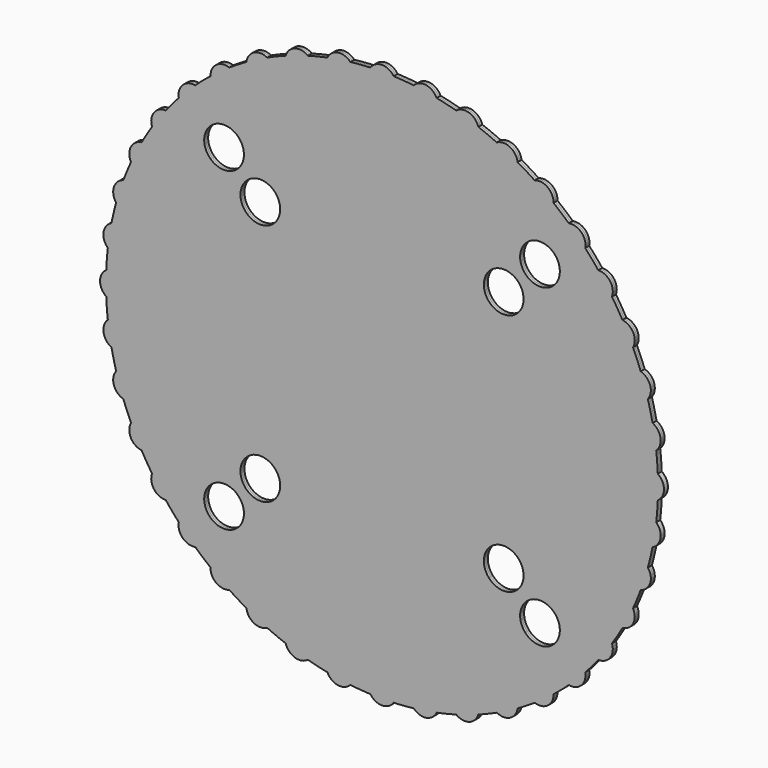
from build123d import *

# Parameters (mm, degrees)
F1_DEPTH = 0.75


with BuildPart() as f1:
    # F0 (on Front) → F1 (new body, symmetric)
    with BuildSketch(Plane.XZ):
        with BuildLine():
            ThreePointArc((83.3256885155, -3.5198911094), (83.3814200592, -1.7603377246), (83.4, 0))
            ThreePointArc((83.4, 0), (83.3814200592, 1.7603377246), (83.3256885155, 3.5198911094))
            ThreePointArc((83.3256885155, 3.5198911094), (76.68, 0), (83.3256885155, -3.5198911094))
        make_face()
        with BuildLine():
            ThreePointArc((83.3256885155, 3.5198911094), (83.3814200592, 1.7603377246), (83.4, 0))
            ThreePointArc((83.4, 0), (83.3814200592, -1.7603377246), (83.3256885155, -3.5198911094))
            ThreePointArc((83.3256885155, -3.5198911094), (84.6951465818, -1.9915628746), (85.19, 0))
            ThreePointArc((85.19, 0), (84.6951465818, 1.9915628746), (83.3256885155, 3.5198911094))
        make_face()
        with BuildLine():
            ThreePointArc((83.3256885155, -3.5198911094), (76.68, 0), (83.3256885155, 3.5198911094))
            ThreePointArc((83.3256885155, 3.5198911094), (83.1429056333, 6.5434885837), (82.8504433015, 9.5584540981))
            ThreePointArc((82.8504433015, 9.5584540981), (75.7359419568, 11.9953947793), (81.7491787361, 16.5115649159))
            ThreePointArc((81.7491787361, 16.5115649159), (81.0956513612, 19.4693433456), (80.3351452086, 22.401438443))
            ThreePointArc((80.3351452086, 22.401438443), (72.9270136695, 23.6954231287), (78.1597328663, 29.0966691955))
            ThreePointArc((78.1597328663, 29.0966691955), (77.0515530114, 31.9157982592), (75.8417292236, 34.6928250274))
            ThreePointArc((75.8417292236, 34.6928250274), (68.3223802748, 34.81199152), (72.645734976, 40.9653169132))
            ThreePointArc((72.645734976, 40.9653169132), (71.1101897071, 43.5763802973), (69.4808381608, 46.1299591207))
            ThreePointArc((69.4808381608, 46.1299591207), (62.0354231287, 45.0713731458), (65.3429579932, 51.8252625724))
            ThreePointArc((65.3429579932, 51.8252625724), (63.417857531, 54.1639672307), (61.4090982688, 56.4312205238))
            ThreePointArc((61.4090982688, 56.4312205238), (54.2209479814, 54.2209479814), (56.4312205238, 61.4090982688))
            ThreePointArc((56.4312205238, 61.4090982688), (54.1639672307, 63.417857531), (51.8252625724, 65.3429579932))
            ThreePointArc((51.8252625724, 65.3429579932), (45.0713731458, 62.0354231287), (46.1299591207, 69.4808381608))
            ThreePointArc((46.1299591207, 69.4808381608), (43.5763802973, 71.1101897071), (40.9653169132, 72.645734976))
            ThreePointArc((40.9653169132, 72.645734976), (40.9903618394, 72.3801977306), (40.9987210964, 72.1136130352))
            ThreePointArc((40.9987210964, 72.1136130352), (34.5782578404, 68.4508553464), (34.6928250274, 75.8417292236))
            ThreePointArc((34.6928250274, 75.8417292236), (31.9157982592, 77.0515530114), (29.0966691955, 78.1597328663))
            ThreePointArc((29.0966691955, 78.1597328663), (29.2229242124, 77.5727096427), (29.2652904397, 76.9737591463))
            ThreePointArc((29.2652904397, 76.9737591463), (23.1388792404, 73.1523922282), (22.401438443, 80.3351452086))
            ThreePointArc((22.401438443, 80.3351452086), (19.4693433456, 81.0956513612), (16.5115649159, 81.7491787361))
            ThreePointArc((16.5115649159, 81.7491787361), (16.8136779424, 80.8661794144), (16.916023428, 79.9385558461))
            ThreePointArc((16.916023428, 79.9385558461), (11.0952021577, 75.9821396964), (9.5584540981, 82.8504433015))
            ThreePointArc((9.5584540981, 82.8504433015), (6.5434885837, 83.1429056333), (3.5198911094, 83.3256885155))
            ThreePointArc((3.5198911094, 83.3256885155), (4.06707276, 82.1855775325), (4.255, 80.935))
            ThreePointArc((4.255, 80.935), (-1.2505775325, 76.86792724), (-3.5198911094, 83.3256885155))
            ThreePointArc((-3.5198911094, 83.3256885155), (-6.5434885837, 83.1429056333), (-9.5584540981, 82.8504433015))
            ThreePointArc((-9.5584540981, 82.8504433015), (-8.7046072784, 81.5043771164), (-8.406023428, 79.9385558461))
            ThreePointArc((-8.406023428, 79.9385558461), (-13.5886469963, 75.7859013317), (-16.5115649159, 81.7491787361))
            ThreePointArc((-16.5115649159, 81.7491787361), (-19.4693433456, 81.0956513612), (-22.401438443, 80.3351452086))
            ThreePointArc((-22.401438443, 80.3351452086), (-21.1889235216, 78.8451703457), (-20.7552904397, 76.9737591463))
            ThreePointArc((-20.7552904397, 76.9737591463), (-25.6092409361, 72.7611253736), (-29.0966691955, 78.1597328663))
            ThreePointArc((-29.0966691955, 78.1597328663), (-31.9157982592, 77.0515530114), (-34.6928250274, 75.8417292236))
            ThreePointArc((-34.6928250274, 75.8417292236), (-33.0809634076, 74.2790762912), (-32.4887210964, 72.1136130352))
            ThreePointArc((-32.4887210964, 72.1136130352), (-37.0103057918, 67.8669722922), (-40.9653169132, 72.645734976))
            ThreePointArc((-40.9653169132, 72.645734976), (-43.5763802973, 71.1101897071), (-46.1299591207, 69.4808381608))
            ThreePointArc((-46.1299591207, 69.4808381608), (-44.090833054, 67.9239549513), (-43.3173993943, 65.4777904397))
            ThreePointArc((-43.3173993943, 65.4777904397), (-47.5049747055, 61.2233246788), (-51.8252625724, 65.3429579932))
            ThreePointArc((-51.8252625724, 65.3429579932), (-54.1639672307, 63.417857531), (-56.4312205238, 61.4090982688))
            ThreePointArc((-56.4312205238, 61.4090982688), (-53.9507773577, 59.9414716849), (-52.9746873353, 57.2296873353))
            ThreePointArc((-52.9746873353, 57.2296873353), (-56.8286689579, 52.9936267526), (-61.4090982688, 56.4312205238))
            ThreePointArc((-61.4090982688, 56.4312205238), (-63.417857531, 54.1639672307), (-65.3429579932, 51.8252625724))
            ThreePointArc((-65.3429579932, 51.8252625724), (-62.4217523952, 50.5330845295), (-61.2227904397, 47.5723993943))
            ThreePointArc((-61.2227904397, 47.5723993943), (-64.7456507854, 43.3808607118), (-69.4808381608, 46.1299591207))
            ThreePointArc((-69.4808381608, 46.1299591207), (-71.1101897071, 43.5763802973), (-72.645734976, 40.9653169132))
            ThreePointArc((-72.645734976, 40.9653169132), (-69.2992884144, 39.935053409), (-67.8586130352, 36.7437210964))
            ThreePointArc((-67.8586130352, 36.7437210964), (-71.0548659883, 32.6225465441), (-75.8417292236, 34.6928250274))
            ThreePointArc((-75.8417292236, 34.6928250274), (-77.0515530114, 31.9157982592), (-78.1597328663, 29.0966691955))
            ThreePointArc((-78.1597328663, 29.0966691955), (-74.4184991966, 28.4125943046), (-72.7187591463, 25.0102904397))
            ThreePointArc((-72.7187591463, 25.0102904397), (-75.5949322346, 20.9848884291), (-80.3351452086, 22.401438443))
            ThreePointArc((-80.3351452086, 22.401438443), (-81.0956513612, 19.4693433456), (-81.7491787361, 16.5115649159))
            ThreePointArc((-81.7491787361, 16.5115649159), (-77.6581145946, 16.2533225106), (-75.6835558461, 12.661023428))
            ThreePointArc((-75.6835558461, 12.661023428), (-78.2481499958, 8.756211901), (-82.8504433015, 9.5584540981))
            ThreePointArc((-82.8504433015, 9.5584540981), (-83.1429056333, 6.5434885837), (-83.3256885155, 3.5198911094))
            ThreePointArc((-83.3256885155, 3.5198911094), (-78.9434371254, 3.7601465818), (-76.68, 0))
            ThreePointArc((-76.68, 0), (-78.9434371254, -3.7601465818), (-83.3256885155, -3.5198911094))
            ThreePointArc((-83.3256885155, -3.5198911094), (-83.1429056333, -6.5434885837), (-82.8504433015, -9.5584540981))
            ThreePointArc((-82.8504433015, -9.5584540981), (-78.2481499958, -8.756211901), (-75.6835558461, -12.661023428))
            ThreePointArc((-75.6835558461, -12.661023428), (-77.6581145946, -16.2533225106), (-81.7491787361, -16.5115649159))
            ThreePointArc((-81.7491787361, -16.5115649159), (-81.0956513612, -19.4693433456), (-80.3351452086, -22.401438443))
            ThreePointArc((-80.3351452086, -22.401438443), (-75.5949322346, -20.9848884291), (-72.7187591463, -25.0102904397))
            ThreePointArc((-72.7187591463, -25.0102904397), (-74.4184991966, -28.4125943046), (-78.1597328663, -29.0966691955))
            ThreePointArc((-78.1597328663, -29.0966691955), (-77.0515530114, -31.9157982592), (-75.8417292236, -34.6928250274))
            ThreePointArc((-75.8417292236, -34.6928250274), (-71.0548659883, -32.6225465441), (-67.8586130352, -36.7437210964))
            ThreePointArc((-67.8586130352, -36.7437210964), (-69.2992884144, -39.935053409), (-72.645734976, -40.9653169132))
            ThreePointArc((-72.645734976, -40.9653169132), (-71.1101897071, -43.5763802973), (-69.4808381608, -46.1299591207))
            ThreePointArc((-69.4808381608, -46.1299591207), (-64.7456507854, -43.3808607118), (-61.2227904397, -47.5723993943))
            ThreePointArc((-61.2227904397, -47.5723993943), (-62.4217523952, -50.5330845295), (-65.3429579932, -51.8252625724))
            ThreePointArc((-65.3429579932, -51.8252625724), (-63.417857531, -54.1639672307), (-61.4090982688, -56.4312205238))
            ThreePointArc((-61.4090982688, -56.4312205238), (-56.8286689579, -52.9936267526), (-52.9746873353, -57.2296873353))
            ThreePointArc((-52.9746873353, -57.2296873353), (-53.9507773577, -59.9414716849), (-56.4312205238, -61.4090982688))
            ThreePointArc((-56.4312205238, -61.4090982688), (-54.1639672307, -63.417857531), (-51.8252625724, -65.3429579932))
            ThreePointArc((-51.8252625724, -65.3429579932), (-47.5049747055, -61.2233246788), (-43.3173993943, -65.4777904397))
            ThreePointArc((-43.3173993943, -65.4777904397), (-44.090833054, -67.9239549513), (-46.1299591207, -69.4808381608))
            ThreePointArc((-46.1299591207, -69.4808381608), (-43.5763802973, -71.1101897071), (-40.9653169132, -72.645734976))
            ThreePointArc((-40.9653169132, -72.645734976), (-37.0103057918, -67.8669722922), (-32.4887210964, -72.1136130352))
            ThreePointArc((-32.4887210964, -72.1136130352), (-33.0809634076, -74.2790762912), (-34.6928250274, -75.8417292236))
            ThreePointArc((-34.6928250274, -75.8417292236), (-31.9157982592, -77.0515530114), (-29.0966691955, -78.1597328663))
            ThreePointArc((-29.0966691955, -78.1597328663), (-25.6092409361, -72.7611253736), (-20.7552904397, -76.9737591463))
            ThreePointArc((-20.7552904397, -76.9737591463), (-21.1889235216, -78.8451703457), (-22.401438443, -80.3351452086))
            ThreePointArc((-22.401438443, -80.3351452086), (-19.4693433456, -81.0956513612), (-16.5115649159, -81.7491787361))
            ThreePointArc((-16.5115649159, -81.7491787361), (-13.5886469963, -75.7859013317), (-8.406023428, -79.9385558461))
            ThreePointArc((-8.406023428, -79.9385558461), (-8.7046072784, -81.5043771164), (-9.5584540981, -82.8504433015))
            ThreePointArc((-9.5584540981, -82.8504433015), (-6.5434885837, -83.1429056333), (-3.5198911094, -83.3256885155))
            ThreePointArc((-3.5198911094, -83.3256885155), (-1.2505775325, -76.86792724), (4.255, -80.935))
            ThreePointArc((4.255, -80.935), (4.06707276, -82.1855775325), (3.5198911094, -83.3256885155))
            ThreePointArc((3.5198911094, -83.3256885155), (6.5434885837, -83.1429056333), (9.5584540981, -82.8504433015))
            ThreePointArc((9.5584540981, -82.8504433015), (11.0952021577, -75.9821396964), (16.916023428, -79.9385558461))
            ThreePointArc((16.916023428, -79.9385558461), (16.8136779424, -80.8661794144), (16.5115649159, -81.7491787361))
            ThreePointArc((16.5115649159, -81.7491787361), (19.4693433456, -81.0956513612), (22.401438443, -80.3351452086))
            ThreePointArc((22.401438443, -80.3351452086), (23.1388792404, -73.1523922282), (29.2652904397, -76.9737591463))
            ThreePointArc((29.2652904397, -76.9737591463), (29.2229242124, -77.5727096427), (29.0966691955, -78.1597328663))
            ThreePointArc((29.0966691955, -78.1597328663), (31.9157982592, -77.0515530114), (34.6928250274, -75.8417292236))
            ThreePointArc((34.6928250274, -75.8417292236), (34.5782578404, -68.4508553464), (40.9987210964, -72.1136130352))
            ThreePointArc((40.9987210964, -72.1136130352), (40.9903618394, -72.3801977306), (40.9653169132, -72.645734976))
            ThreePointArc((40.9653169132, -72.645734976), (43.5763802973, -71.1101897071), (46.1299591207, -69.4808381608))
            ThreePointArc((46.1299591207, -69.4808381608), (45.0713731458, -62.0354231287), (51.8252625724, -65.3429579932))
            ThreePointArc((51.8252625724, -65.3429579932), (54.1639672307, -63.417857531), (56.4312205238, -61.4090982688))
            ThreePointArc((56.4312205238, -61.4090982688), (54.2209479814, -54.2209479814), (61.4090982688, -56.4312205238))
            ThreePointArc((61.4090982688, -56.4312205238), (63.417857531, -54.1639672307), (65.3429579932, -51.8252625724))
            ThreePointArc((65.3429579932, -51.8252625724), (62.0354231287, -45.0713731458), (69.4808381608, -46.1299591207))
            ThreePointArc((69.4808381608, -46.1299591207), (71.1101897071, -43.5763802973), (72.645734976, -40.9653169132))
            ThreePointArc((72.645734976, -40.9653169132), (68.3223802748, -34.81199152), (75.8417292236, -34.6928250274))
            ThreePointArc((75.8417292236, -34.6928250274), (77.0515530114, -31.9157982593), (78.1597328663, -29.0966691955))
            ThreePointArc((78.1597328663, -29.0966691955), (72.9270136695, -23.6954231287), (80.3351452086, -22.401438443))
            ThreePointArc((80.3351452086, -22.401438443), (81.0956513612, -19.4693433456), (81.7491787361, -16.5115649159))
            ThreePointArc((81.7491787361, -16.5115649159), (75.7359419568, -11.9953947793), (82.8504433015, -9.5584540981))
            ThreePointArc((82.8504433015, -9.5584540981), (83.1429056333, -6.5434885837), (83.3256885155, -3.5198911094))
        make_face()
        with BuildLine():
            ThreePointArc((51.7795942752, 43.3026975684), (63.4482963269, 23.0339682472), (67.5, 0))
            ThreePointArc((67.5, 0), (63.4482963269, -23.0339682472), (51.7795942752, -43.3026975684))
            ThreePointArc((51.7795942752, -43.3026975684), (53.2205783018, -45.3109600449), (53.7297077301, -47.7297077301))
            ThreePointArc((53.7297077301, -47.7297077301), (49.9020266558, -53.3226524362), (43.3026975684, -51.7795942752))
            ThreePointArc((43.3026975684, -51.7795942752), (0, -67.5), (-43.3026975684, -51.7795942752))
            ThreePointArc((-43.3026975684, -51.7795942752), (-51.9723484172, -51.9723484172), (-51.7795942752, -43.3026975684))
            ThreePointArc((-51.7795942752, -43.3026975684), (-67.5, 0), (-51.7795942752, 43.3026975684))
            ThreePointArc((-51.7795942752, 43.3026975684), (-51.9723484172, 51.9723484172), (-43.3026975684, 51.7795942752))
            ThreePointArc((-43.3026975684, 51.7795942752), (0, 67.5), (43.3026975684, 51.7795942752))
            ThreePointArc((43.3026975684, 51.7795942752), (49.9020266558, 53.3226524362), (53.7297077301, 47.7297077301))
            ThreePointArc((53.7297077301, 47.7297077301), (53.2205783018, 45.3109600449), (51.7795942752, 43.3026975684))
        make_face(mode=Mode.SUBTRACT)
        with BuildLine():
            ThreePointArc((81.7491787361, 16.5115649159), (75.7359419568, 11.9953947793), (82.8504433015, 9.5584540981))
            ThreePointArc((82.8504433015, 9.5584540981), (82.3732076056, 13.0466343844), (81.7491787361, 16.5115649159))
        make_face()
        with BuildLine():
            ThreePointArc((81.7491787361, 16.5115649159), (82.3732076056, 13.0466343844), (82.8504433015, 9.5584540981))
            ThreePointArc((82.8504433015, 9.5584540981), (83.8433673731, 10.9706175778), (84.1935558461, 12.661023428))
            ThreePointArc((84.1935558461, 12.661023428), (83.5308549286, 14.9414646795), (81.7491787361, 16.5115649159))
        make_face()
        with BuildLine():
            ThreePointArc((84.1935558461, -12.661023428), (83.8433673731, -10.9706175778), (82.8504433015, -9.5584540981))
            ThreePointArc((82.8504433015, -9.5584540981), (82.3732076056, -13.0466343844), (81.7491787361, -16.5115649159))
            ThreePointArc((81.7491787361, -16.5115649159), (83.5308549286, -14.9414646795), (84.1935558461, -12.661023428))
        make_face()
        with BuildLine():
            ThreePointArc((81.7491787361, -16.5115649159), (82.3732076056, -13.0466343844), (82.8504433015, -9.5584540981))
            ThreePointArc((82.8504433015, -9.5584540981), (75.7359419568, -11.9953947793), (81.7491787361, -16.5115649159))
        make_face()
        with BuildLine():
            ThreePointArc((78.1597328663, 29.0966691955), (72.9270136695, 23.6954231287), (80.3351452086, 22.401438443))
            ThreePointArc((80.3351452086, 22.401438443), (79.318113459, 25.7720173309), (78.1597328663, 29.0966691955))
        make_face()
        with BuildLine():
            ThreePointArc((78.1597328663, 29.0966691955), (79.318113459, 25.7720173309), (80.3351452086, 22.401438443))
            ThreePointArc((80.3351452086, 22.401438443), (80.999161157, 23.631463528), (81.2287591463, 25.0102904397))
            ThreePointArc((81.2287591463, 25.0102904397), (80.3760630113, 27.5655503895), (78.1597328663, 29.0966691955))
        make_face()
        with BuildLine():
            ThreePointArc((81.2287591463, -25.0102904397), (80.999161157, -23.631463528), (80.3351452086, -22.401438443))
            ThreePointArc((80.3351452086, -22.401438443), (79.318113459, -25.7720173309), (78.1597328663, -29.0966691955))
            ThreePointArc((78.1597328663, -29.0966691955), (80.3760630113, -27.5655503895), (81.2287591463, -25.0102904397))
        make_face()
        with BuildLine():
            ThreePointArc((78.1597328663, -29.0966691955), (79.318113459, -25.7720173309), (80.3351452086, -22.401438443))
            ThreePointArc((80.3351452086, -22.401438443), (72.9270136695, -23.6954231287), (78.1597328663, -29.0966691955))
        make_face()
        with BuildLine():
            ThreePointArc((72.645734976, 40.9653169132), (68.3223802748, 34.81199152), (75.8417292236, 34.6928250274))
            ThreePointArc((75.8417292236, 34.6928250274), (74.3099441173, 37.8628076783), (72.645734976, 40.9653169132))
        make_face()
        with BuildLine():
            ThreePointArc((72.645734976, 40.9653169132), (74.3099441173, 37.8628076783), (75.8417292236, 34.6928250274))
            ThreePointArc((75.8417292236, 34.6928250274), (76.2347875875, 35.6849740496), (76.3686130352, 36.7437210964))
            ThreePointArc((76.3686130352, 36.7437210964), (75.3049453477, 39.5580457172), (72.645734976, 40.9653169132))
        make_face()
        with BuildLine():
            ThreePointArc((76.3686130352, -36.7437210964), (76.2347875875, -35.6849740496), (75.8417292236, -34.6928250274))
            ThreePointArc((75.8417292236, -34.6928250274), (74.3099441173, -37.8628076783), (72.645734976, -40.9653169132))
            ThreePointArc((72.645734976, -40.9653169132), (75.3049453477, -39.5580457172), (76.3686130352, -36.7437210964))
        make_face()
        with BuildLine():
            ThreePointArc((72.645734976, -40.9653169132), (74.3099441173, -37.8628076783), (75.8417292236, -34.6928250274))
            ThreePointArc((75.8417292236, -34.6928250274), (68.3223802748, -34.81199152), (72.645734976, -40.9653169132))
        make_face()
        with BuildLine():
            ThreePointArc((65.3429579932, 51.8252625724), (62.0354231287, 45.0713731458), (69.4808381608, 46.1299591207))
            ThreePointArc((69.4808381608, 46.1299591207), (67.4720173309, 49.0212900412), (65.3429579932, 51.8252625724))
        make_face()
        with BuildLine():
            ThreePointArc((65.3429579932, 51.8252625724), (67.4720173309, 49.0212900412), (69.4808381608, 46.1299591207))
            ThreePointArc((69.4808381608, 46.1299591207), (69.6693291222, 46.8402597399), (69.7327904397, 47.5723993943))
            ThreePointArc((69.7327904397, 47.5723993943), (68.438475575, 50.6284374389), (65.3429579932, 51.8252625724))
        make_face()
        with BuildLine():
            ThreePointArc((69.7327904397, -47.5723993943), (69.6693291222, -46.8402597399), (69.4808381608, -46.1299591207))
            ThreePointArc((69.4808381608, -46.1299591207), (67.4720173309, -49.0212900412), (65.3429579932, -51.8252625724))
            ThreePointArc((65.3429579932, -51.8252625724), (68.438475575, -50.6284374389), (69.7327904397, -47.5723993943))
        make_face()
        with BuildLine():
            ThreePointArc((65.3429579932, -51.8252625724), (67.4720173309, -49.0212900412), (69.4808381608, -46.1299591207))
            ThreePointArc((69.4808381608, -46.1299591207), (62.0354231287, -45.0713731458), (65.3429579932, -51.8252625724))
        make_face()
        with BuildLine():
            ThreePointArc((56.4312205238, 61.4090982688), (54.2209479814, 54.2209479814), (61.4090982688, 56.4312205238))
            ThreePointArc((61.4090982688, 56.4312205238), (58.972705551, 58.972705551), (56.4312205238, 61.4090982688))
        make_face()
        with BuildLine():
            ThreePointArc((56.4312205238, 61.4090982688), (58.972705551, 58.972705551), (61.4090982688, 56.4312205238))
            ThreePointArc((61.4090982688, 56.4312205238), (61.4657479181, 56.8286689579), (61.4846873353, 57.2296873353))
            ThreePointArc((61.4846873353, 57.2296873353), (59.9414716849, 60.508597313), (56.4312205238, 61.4090982688))
        make_face()
        with BuildLine():
            ThreePointArc((61.4846873353, -57.2296873353), (61.4657479181, -56.8286689579), (61.4090982688, -56.4312205238))
            ThreePointArc((61.4090982688, -56.4312205238), (58.972705551, -58.972705551), (56.4312205238, -61.4090982688))
            ThreePointArc((56.4312205238, -61.4090982688), (59.9414716849, -60.508597313), (61.4846873353, -57.2296873353))
        make_face()
        with BuildLine():
            ThreePointArc((56.4312205238, -61.4090982688), (58.972705551, -58.972705551), (61.4090982688, -56.4312205238))
            ThreePointArc((61.4090982688, -56.4312205238), (54.2209479814, -54.2209479814), (56.4312205238, -61.4090982688))
        make_face()
        with BuildLine():
            ThreePointArc((46.1299591207, 69.4808381608), (45.0713731458, 62.0354231287), (51.8252625724, 65.3429579932))
            ThreePointArc((51.8252625724, 65.3429579932), (49.0212900412, 67.4720173309), (46.1299591207, 69.4808381608))
        make_face()
        with BuildLine():
            ThreePointArc((46.1299591207, 69.4808381608), (49.0212900412, 67.4720173309), (51.8252625724, 65.3429579932))
            ThreePointArc((51.8252625724, 65.3429579932), (51.8268651553, 65.4103657509), (51.8273993943, 65.4777904397))
            ThreePointArc((51.8273993943, 65.4777904397), (50.0185639059, 68.9593567801), (46.1299591207, 69.4808381608))
        make_face()
        with BuildLine():
            ThreePointArc((51.8273993943, -65.4777904397), (51.8268651553, -65.4103657509), (51.8252625724, -65.3429579932))
            ThreePointArc((51.8252625724, -65.3429579932), (49.0212900412, -67.4720173309), (46.1299591207, -69.4808381608))
            ThreePointArc((46.1299591207, -69.4808381608), (50.0185639059, -68.9593567801), (51.8273993943, -65.4777904397))
        make_face()
        with BuildLine():
            ThreePointArc((46.1299591207, -69.4808381608), (49.0212900412, -67.4720173309), (51.8252625724, -65.3429579932))
            ThreePointArc((51.8252625724, -65.3429579932), (45.0713731458, -62.0354231287), (46.1299591207, -69.4808381608))
        make_face()
        with BuildLine():
            ThreePointArc((40.9987210964, 72.1136130352), (40.9903618394, 72.3801977306), (40.9653169132, 72.645734976))
            ThreePointArc((40.9653169132, 72.645734976), (37.8628076783, 74.3099441173), (34.6928250274, 75.8417292236))
            ThreePointArc((34.6928250274, 75.8417292236), (34.5782578404, 68.4508553464), (40.9987210964, 72.1136130352))
        make_face()
        with BuildLine():
            ThreePointArc((34.6928250274, 75.8417292236), (37.8628076783, 74.3099441173), (40.9653169132, 72.645734976))
            ThreePointArc((40.9653169132, 72.645734976), (38.6754506728, 75.9048457956), (34.6928250274, 75.8417292236))
        make_face()
        with BuildLine():
            ThreePointArc((34.6928250274, -75.8417292236), (38.6754506728, -75.9048457956), (40.9653169132, -72.645734976))
            ThreePointArc((40.9653169132, -72.645734976), (37.8628076783, -74.3099441173), (34.6928250274, -75.8417292236))
        make_face()
        with BuildLine():
            ThreePointArc((34.6928250274, -75.8417292236), (37.8628076783, -74.3099441173), (40.9653169132, -72.645734976))
            ThreePointArc((40.9653169132, -72.645734976), (40.9903618394, -72.3801977306), (40.9987210964, -72.1136130352))
            ThreePointArc((40.9987210964, -72.1136130352), (34.5782578404, -68.4508553464), (34.6928250274, -75.8417292236))
        make_face()
        with BuildLine():
            ThreePointArc((29.2652904397, 76.9737591463), (29.2229242124, 77.5727096427), (29.0966691955, 78.1597328663))
            ThreePointArc((29.0966691955, 78.1597328663), (25.7720173309, 79.318113459), (22.401438443, 80.3351452086))
            ThreePointArc((22.401438443, 80.3351452086), (23.1388792404, 73.1523922282), (29.2652904397, 76.9737591463))
        make_face()
        with BuildLine():
            ThreePointArc((22.401438443, 80.3351452086), (25.7720173309, 79.318113459), (29.0966691955, 78.1597328663))
            ThreePointArc((29.0966691955, 78.1597328663), (26.3251577508, 81.0205046232), (22.401438443, 80.3351452086))
        make_face()
        with BuildLine():
            ThreePointArc((22.401438443, -80.3351452086), (26.3251577508, -81.0205046232), (29.0966691955, -78.1597328663))
            ThreePointArc((29.0966691955, -78.1597328663), (25.7720173309, -79.318113459), (22.401438443, -80.3351452086))
        make_face()
        with BuildLine():
            ThreePointArc((22.401438443, -80.3351452086), (25.7720173309, -79.318113459), (29.0966691955, -78.1597328663))
            ThreePointArc((29.0966691955, -78.1597328663), (29.2229242124, -77.5727096427), (29.2652904397, -76.9737591463))
            ThreePointArc((29.2652904397, -76.9737591463), (23.1388792404, -73.1523922282), (22.401438443, -80.3351452086))
        make_face()
        with BuildLine():
            ThreePointArc((16.916023428, 79.9385558461), (16.8136779424, 80.8661794144), (16.5115649159, 81.7491787361))
            ThreePointArc((16.5115649159, 81.7491787361), (13.0466343844, 82.3732076056), (9.5584540981, 82.8504433015))
            ThreePointArc((9.5584540981, 82.8504433015), (11.0952021577, 75.9821396964), (16.916023428, 79.9385558461))
        make_face()
        with BuildLine():
            ThreePointArc((9.5584540981, 82.8504433015), (13.0466343844, 82.3732076056), (16.5115649159, 81.7491787361))
            ThreePointArc((16.5115649159, 81.7491787361), (13.3266520768, 84.1411697353), (9.5584540981, 82.8504433015))
        make_face()
        with BuildLine():
            ThreePointArc((9.5584540981, -82.8504433015), (13.3266520768, -84.1411697353), (16.5115649159, -81.7491787361))
            ThreePointArc((16.5115649159, -81.7491787361), (13.0466343844, -82.3732076056), (9.5584540981, -82.8504433015))
        make_face()
        with BuildLine():
            ThreePointArc((9.5584540981, -82.8504433015), (13.0466343844, -82.3732076056), (16.5115649159, -81.7491787361))
            ThreePointArc((16.5115649159, -81.7491787361), (16.8136779424, -80.8661794144), (16.916023428, -79.9385558461))
            ThreePointArc((16.916023428, -79.9385558461), (11.0952021577, -75.9821396964), (9.5584540981, -82.8504433015))
        make_face()
        with BuildLine():
            ThreePointArc((4.255, 80.935), (4.06707276, 82.1855775325), (3.5198911094, 83.3256885155))
            ThreePointArc((3.5198911094, 83.3256885155), (0, 83.4), (-3.5198911094, 83.3256885155))
            ThreePointArc((-3.5198911094, 83.3256885155), (-1.2505775325, 76.86792724), (4.255, 80.935))
        make_face()
        with BuildLine():
            ThreePointArc((-3.5198911094, 83.3256885155), (0, 83.4), (3.5198911094, 83.3256885155))
            ThreePointArc((3.5198911094, 83.3256885155), (0, 85.19), (-3.5198911094, 83.3256885155))
        make_face()
        with BuildLine():
            ThreePointArc((-3.5198911094, -83.3256885155), (0, -85.19), (3.5198911094, -83.3256885155))
            ThreePointArc((3.5198911094, -83.3256885155), (0, -83.4), (-3.5198911094, -83.3256885155))
        make_face()
        with BuildLine():
            ThreePointArc((-3.5198911094, -83.3256885155), (0, -83.4), (3.5198911094, -83.3256885155))
            ThreePointArc((3.5198911094, -83.3256885155), (4.06707276, -82.1855775325), (4.255, -80.935))
            ThreePointArc((4.255, -80.935), (-1.2505775325, -76.86792724), (-3.5198911094, -83.3256885155))
        make_face()
        with BuildLine():
            ThreePointArc((-8.406023428, 79.9385558461), (-8.7046072784, 81.5043771164), (-9.5584540981, 82.8504433015))
            ThreePointArc((-9.5584540981, 82.8504433015), (-13.0466343844, 82.3732076056), (-16.5115649159, 81.7491787361))
            ThreePointArc((-16.5115649159, 81.7491787361), (-13.5886469963, 75.7859013317), (-8.406023428, 79.9385558461))
        make_face()
        with BuildLine():
            ThreePointArc((-16.5115649159, 81.7491787361), (-13.0466343844, 82.3732076056), (-9.5584540981, 82.8504433015))
            ThreePointArc((-9.5584540981, 82.8504433015), (-13.3266520768, 84.1411697353), (-16.5115649159, 81.7491787361))
        make_face()
        with BuildLine():
            ThreePointArc((-16.5115649159, -81.7491787361), (-13.3266520768, -84.1411697353), (-9.5584540981, -82.8504433015))
            ThreePointArc((-9.5584540981, -82.8504433015), (-13.0466343844, -82.3732076056), (-16.5115649159, -81.7491787361))
        make_face()
        with BuildLine():
            ThreePointArc((-16.5115649159, -81.7491787361), (-13.0466343844, -82.3732076056), (-9.5584540981, -82.8504433015))
            ThreePointArc((-9.5584540981, -82.8504433015), (-8.7046072784, -81.5043771164), (-8.406023428, -79.9385558461))
            ThreePointArc((-8.406023428, -79.9385558461), (-13.5886469963, -75.7859013317), (-16.5115649159, -81.7491787361))
        make_face()
        with BuildLine():
            ThreePointArc((-20.7552904397, 76.9737591463), (-21.1889235216, 78.8451703457), (-22.401438443, 80.3351452086))
            ThreePointArc((-22.401438443, 80.3351452086), (-25.7720173309, 79.318113459), (-29.0966691955, 78.1597328663))
            ThreePointArc((-29.0966691955, 78.1597328663), (-25.6092409361, 72.7611253736), (-20.7552904397, 76.9737591463))
        make_face()
        with BuildLine():
            ThreePointArc((-29.0966691955, 78.1597328663), (-25.7720173309, 79.318113459), (-22.401438443, 80.3351452086))
            ThreePointArc((-22.401438443, 80.3351452086), (-26.3251577508, 81.0205046232), (-29.0966691955, 78.1597328663))
        make_face()
        with BuildLine():
            ThreePointArc((-29.0966691955, -78.1597328663), (-26.3251577508, -81.0205046232), (-22.401438443, -80.3351452086))
            ThreePointArc((-22.401438443, -80.3351452086), (-25.7720173309, -79.318113459), (-29.0966691955, -78.1597328663))
        make_face()
        with BuildLine():
            ThreePointArc((-29.0966691955, -78.1597328663), (-25.7720173309, -79.318113459), (-22.401438443, -80.3351452086))
            ThreePointArc((-22.401438443, -80.3351452086), (-21.1889235216, -78.8451703457), (-20.7552904397, -76.9737591463))
            ThreePointArc((-20.7552904397, -76.9737591463), (-25.6092409361, -72.7611253736), (-29.0966691955, -78.1597328663))
        make_face()
        with BuildLine():
            ThreePointArc((-32.4887210964, 72.1136130352), (-33.0809634076, 74.2790762912), (-34.6928250274, 75.8417292236))
            ThreePointArc((-34.6928250274, 75.8417292236), (-37.8628076783, 74.3099441173), (-40.9653169132, 72.645734976))
            ThreePointArc((-40.9653169132, 72.645734976), (-37.0103057918, 67.8669722922), (-32.4887210964, 72.1136130352))
        make_face()
        with BuildLine():
            ThreePointArc((-40.9653169132, 72.645734976), (-37.8628076783, 74.3099441173), (-34.6928250274, 75.8417292236))
            ThreePointArc((-34.6928250274, 75.8417292236), (-38.6754506728, 75.9048457956), (-40.9653169132, 72.645734976))
        make_face()
        with BuildLine():
            ThreePointArc((-40.9653169132, -72.645734976), (-38.6754506728, -75.9048457956), (-34.6928250274, -75.8417292236))
            ThreePointArc((-34.6928250274, -75.8417292236), (-37.8628076783, -74.3099441173), (-40.9653169132, -72.645734976))
        make_face()
        with BuildLine():
            ThreePointArc((-40.9653169132, -72.645734976), (-37.8628076783, -74.3099441173), (-34.6928250274, -75.8417292236))
            ThreePointArc((-34.6928250274, -75.8417292236), (-33.0809634076, -74.2790762912), (-32.4887210964, -72.1136130352))
            ThreePointArc((-32.4887210964, -72.1136130352), (-37.0103057918, -67.8669722922), (-40.9653169132, -72.645734976))
        make_face()
        with BuildLine():
            ThreePointArc((-43.3173993943, 65.4777904397), (-44.090833054, 67.9239549513), (-46.1299591207, 69.4808381608))
            ThreePointArc((-46.1299591207, 69.4808381608), (-49.0212900412, 67.4720173309), (-51.8252625724, 65.3429579932))
            ThreePointArc((-51.8252625724, 65.3429579932), (-47.5049747055, 61.2233246788), (-43.3173993943, 65.4777904397))
        make_face()
        with BuildLine():
            ThreePointArc((-51.8252625724, 65.3429579932), (-49.0212900412, 67.4720173309), (-46.1299591207, 69.4808381608))
            ThreePointArc((-46.1299591207, 69.4808381608), (-50.0734256428, 68.9201577508), (-51.8252625724, 65.3429579932))
        make_face()
        with BuildLine():
            ThreePointArc((-51.8252625724, -65.3429579932), (-50.0734256428, -68.9201577508), (-46.1299591207, -69.4808381608))
            ThreePointArc((-46.1299591207, -69.4808381608), (-49.0212900412, -67.4720173309), (-51.8252625724, -65.3429579932))
        make_face()
        with BuildLine():
            ThreePointArc((-51.8252625724, -65.3429579932), (-49.0212900412, -67.4720173309), (-46.1299591207, -69.4808381608))
            ThreePointArc((-46.1299591207, -69.4808381608), (-44.090833054, -67.9239549513), (-43.3173993943, -65.4777904397))
            ThreePointArc((-43.3173993943, -65.4777904397), (-47.5049747055, -61.2233246788), (-51.8252625724, -65.3429579932))
        make_face()
        with BuildLine():
            ThreePointArc((-52.9746873353, 57.2296873353), (-53.9507773577, 59.9414716849), (-56.4312205238, 61.4090982688))
            ThreePointArc((-56.4312205238, 61.4090982688), (-58.972705551, 58.972705551), (-61.4090982688, 56.4312205238))
            ThreePointArc((-61.4090982688, 56.4312205238), (-56.8286689579, 52.9936267526), (-52.9746873353, 57.2296873353))
        make_face()
        with BuildLine():
            ThreePointArc((-61.4090982688, 56.4312205238), (-58.972705551, 58.972705551), (-56.4312205238, 61.4090982688))
            ThreePointArc((-56.4312205238, 61.4090982688), (-60.2384266893, 60.2384266893), (-61.4090982688, 56.4312205238))
        make_face()
        with BuildLine():
            ThreePointArc((-61.4090982688, -56.4312205238), (-60.2384266893, -60.2384266893), (-56.4312205238, -61.4090982688))
            ThreePointArc((-56.4312205238, -61.4090982688), (-58.972705551, -58.972705551), (-61.4090982688, -56.4312205238))
        make_face()
        with BuildLine():
            ThreePointArc((-61.4090982688, -56.4312205238), (-58.972705551, -58.972705551), (-56.4312205238, -61.4090982688))
            ThreePointArc((-56.4312205238, -61.4090982688), (-53.9507773577, -59.9414716849), (-52.9746873353, -57.2296873353))
            ThreePointArc((-52.9746873353, -57.2296873353), (-56.8286689579, -52.9936267526), (-61.4090982688, -56.4312205238))
        make_face()
        with BuildLine():
            ThreePointArc((-61.2227904397, 47.5723993943), (-62.4217523952, 50.5330845295), (-65.3429579932, 51.8252625724))
            ThreePointArc((-65.3429579932, 51.8252625724), (-67.4720173309, 49.0212900412), (-69.4808381608, 46.1299591207))
            ThreePointArc((-69.4808381608, 46.1299591207), (-64.7456507854, 43.3808607118), (-61.2227904397, 47.5723993943))
        make_face()
        with BuildLine():
            ThreePointArc((-69.4808381608, 46.1299591207), (-67.4720173309, 49.0212900412), (-65.3429579932, 51.8252625724))
            ThreePointArc((-65.3429579932, 51.8252625724), (-68.9201577508, 50.0734256428), (-69.4808381608, 46.1299591207))
        make_face()
        with BuildLine():
            ThreePointArc((-69.4808381608, -46.1299591207), (-68.9201577508, -50.0734256428), (-65.3429579932, -51.8252625724))
            ThreePointArc((-65.3429579932, -51.8252625724), (-67.4720173309, -49.0212900412), (-69.4808381608, -46.1299591207))
        make_face()
        with BuildLine():
            ThreePointArc((-69.4808381608, -46.1299591207), (-67.4720173309, -49.0212900412), (-65.3429579932, -51.8252625724))
            ThreePointArc((-65.3429579932, -51.8252625724), (-62.4217523952, -50.5330845295), (-61.2227904397, -47.5723993943))
            ThreePointArc((-61.2227904397, -47.5723993943), (-64.7456507854, -43.3808607118), (-69.4808381608, -46.1299591207))
        make_face()
        with BuildLine():
            ThreePointArc((-67.8586130352, 36.7437210964), (-69.2992884144, 39.935053409), (-72.645734976, 40.9653169132))
            ThreePointArc((-72.645734976, 40.9653169132), (-74.3099441173, 37.8628076783), (-75.8417292236, 34.6928250274))
            ThreePointArc((-75.8417292236, 34.6928250274), (-71.0548659883, 32.6225465441), (-67.8586130352, 36.7437210964))
        make_face()
        with BuildLine():
            ThreePointArc((-75.8417292236, 34.6928250274), (-74.3099441173, 37.8628076783), (-72.645734976, 40.9653169132))
            ThreePointArc((-72.645734976, 40.9653169132), (-75.9048457956, 38.6754506728), (-75.8417292236, 34.6928250274))
        make_face()
        with BuildLine():
            ThreePointArc((-75.8417292236, -34.6928250274), (-75.9048457956, -38.6754506728), (-72.645734976, -40.9653169132))
            ThreePointArc((-72.645734976, -40.9653169132), (-74.3099441173, -37.8628076783), (-75.8417292236, -34.6928250274))
        make_face()
        with BuildLine():
            ThreePointArc((-75.8417292236, -34.6928250274), (-74.3099441173, -37.8628076783), (-72.645734976, -40.9653169132))
            ThreePointArc((-72.645734976, -40.9653169132), (-69.2992884144, -39.935053409), (-67.8586130352, -36.7437210964))
            ThreePointArc((-67.8586130352, -36.7437210964), (-71.0548659883, -32.6225465441), (-75.8417292236, -34.6928250274))
        make_face()
        with BuildLine():
            ThreePointArc((-72.7187591463, 25.0102904397), (-74.4184991966, 28.4125943046), (-78.1597328663, 29.0966691955))
            ThreePointArc((-78.1597328663, 29.0966691955), (-79.318113459, 25.7720173309), (-80.3351452086, 22.401438443))
            ThreePointArc((-80.3351452086, 22.401438443), (-75.5949322346, 20.9848884291), (-72.7187591463, 25.0102904397))
        make_face()
        with BuildLine():
            ThreePointArc((-80.3351452086, 22.401438443), (-79.318113459, 25.7720173309), (-78.1597328663, 29.0966691955))
            ThreePointArc((-78.1597328663, 29.0966691955), (-81.0205046232, 26.3251577508), (-80.3351452086, 22.401438443))
        make_face()
        with BuildLine():
            ThreePointArc((-80.3351452086, -22.401438443), (-81.0205046232, -26.3251577508), (-78.1597328663, -29.0966691955))
            ThreePointArc((-78.1597328663, -29.0966691955), (-79.318113459, -25.7720173309), (-80.3351452086, -22.401438443))
        make_face()
        with BuildLine():
            ThreePointArc((-80.3351452086, -22.401438443), (-79.318113459, -25.7720173309), (-78.1597328663, -29.0966691955))
            ThreePointArc((-78.1597328663, -29.0966691955), (-74.4184991966, -28.4125943046), (-72.7187591463, -25.0102904397))
            ThreePointArc((-72.7187591463, -25.0102904397), (-75.5949322346, -20.9848884291), (-80.3351452086, -22.401438443))
        make_face()
        with BuildLine():
            ThreePointArc((-75.6835558461, 12.661023428), (-77.6581145946, 16.2533225106), (-81.7491787361, 16.5115649159))
            ThreePointArc((-81.7491787361, 16.5115649159), (-82.3732076056, 13.0466343844), (-82.8504433015, 9.5584540981))
            ThreePointArc((-82.8504433015, 9.5584540981), (-78.2481499958, 8.756211901), (-75.6835558461, 12.661023428))
        make_face()
        with BuildLine():
            ThreePointArc((-82.8504433015, 9.5584540981), (-82.3732076056, 13.0466343844), (-81.7491787361, 16.5115649159))
            ThreePointArc((-81.7491787361, 16.5115649159), (-84.1411697353, 13.3266520768), (-82.8504433015, 9.5584540981))
        make_face()
        with BuildLine():
            ThreePointArc((-82.8504433015, -9.5584540981), (-84.1411697353, -13.3266520768), (-81.7491787361, -16.5115649159))
            ThreePointArc((-81.7491787361, -16.5115649159), (-82.3732076056, -13.0466343844), (-82.8504433015, -9.5584540981))
        make_face()
        with BuildLine():
            ThreePointArc((-82.8504433015, -9.5584540981), (-82.3732076056, -13.0466343844), (-81.7491787361, -16.5115649159))
            ThreePointArc((-81.7491787361, -16.5115649159), (-77.6581145946, -16.2533225106), (-75.6835558461, -12.661023428))
            ThreePointArc((-75.6835558461, -12.661023428), (-78.2481499958, -8.756211901), (-82.8504433015, -9.5584540981))
        make_face()
        with BuildLine():
            ThreePointArc((-76.68, 0), (-78.9434371254, 3.7601465818), (-83.3256885155, 3.5198911094))
            ThreePointArc((-83.3256885155, 3.5198911094), (-83.4, 0), (-83.3256885155, -3.5198911094))
            ThreePointArc((-83.3256885155, -3.5198911094), (-78.9434371254, -3.7601465818), (-76.68, 0))
        make_face()
        with BuildLine():
            ThreePointArc((-83.3256885155, -3.5198911094), (-83.4, 0), (-83.3256885155, 3.5198911094))
            ThreePointArc((-83.3256885155, 3.5198911094), (-85.19, 0), (-83.3256885155, -3.5198911094))
        make_face()
        with BuildLine():
            ThreePointArc((51.7795942752, -43.3026975684), (63.4482963269, -23.0339682472), (67.5, 0))
            ThreePointArc((67.5, 0), (63.4482963269, 23.0339682472), (51.7795942752, 43.3026975684))
            ThreePointArc((51.7795942752, 43.3026975684), (43.487067043, 43.487067043), (43.3026975684, 51.7795942752))
            ThreePointArc((43.3026975684, 51.7795942752), (0, 67.5), (-43.3026975684, 51.7795942752))
            ThreePointArc((-43.3026975684, 51.7795942752), (-42.136763024, 49.9020266558), (-41.7297077301, 47.7297077301))
            ThreePointArc((-41.7297077301, 47.7297077301), (-45.3109600449, 42.2388371584), (-51.7795942752, 43.3026975684))
            ThreePointArc((-51.7795942752, 43.3026975684), (-67.5, 0), (-51.7795942752, -43.3026975684))
            ThreePointArc((-51.7795942752, -43.3026975684), (-45.3109600449, -42.2388371584), (-41.7297077301, -47.7297077301))
            ThreePointArc((-41.7297077301, -47.7297077301), (-42.136763024, -49.9020266558), (-43.3026975684, -51.7795942752))
            ThreePointArc((-43.3026975684, -51.7795942752), (0, -67.5), (43.3026975684, -51.7795942752))
            ThreePointArc((43.3026975684, -51.7795942752), (43.487067043, -43.487067043), (51.7795942752, -43.3026975684))
        make_face()
        with BuildLine():
            ThreePointArc((40.7603590843, 32.2892106952), (49.109768236, 17.0947554475), (52, 0))
            ThreePointArc((52, 0), (49.109768236, -17.0947554475), (40.7603590843, -32.2892106952))
            ThreePointArc((40.7603590843, -32.2892106952), (42.2442598639, -34.314439465), (42.7695526217, -36.7695526217))
            ThreePointArc((42.7695526217, -36.7695526217), (38.904728076, -42.3767823994), (32.2892106952, -40.7603590843))
            ThreePointArc((32.2892106952, -40.7603590843), (0, -52), (-32.2892106952, -40.7603590843))
            ThreePointArc((-32.2892106952, -40.7603590843), (-41.0121933088, -41.0121933088), (-40.7603590843, -32.2892106952))
            ThreePointArc((-40.7603590843, -32.2892106952), (-52, 0), (-40.7603590843, 32.2892106952))
            ThreePointArc((-40.7603590843, 32.2892106952), (-41.0121933088, 41.0121933088), (-32.2892106952, 40.7603590843))
            ThreePointArc((-32.2892106952, 40.7603590843), (0, 52), (32.2892106952, 40.7603590843))
            ThreePointArc((32.2892106952, 40.7603590843), (38.904728076, 42.3767823994), (42.7695526217, 36.7695526217))
            ThreePointArc((42.7695526217, 36.7695526217), (42.2442598639, 34.314439465), (40.7603590843, 32.2892106952))
        make_face(mode=Mode.SUBTRACT)
        with BuildLine():
            ThreePointArc((40.7603590843, -32.2892106952), (49.109768236, -17.0947554475), (52, 0))
            ThreePointArc((52, 0), (49.109768236, 17.0947554475), (40.7603590843, 32.2892106952))
            ThreePointArc((40.7603590843, 32.2892106952), (32.5269119346, 32.5269119346), (32.2892106952, 40.7603590843))
            ThreePointArc((32.2892106952, 40.7603590843), (0, 52), (-32.2892106952, 40.7603590843))
            ThreePointArc((-32.2892106952, 40.7603590843), (-31.162322844, 38.904728076), (-30.7695526217, 36.7695526217))
            ThreePointArc((-30.7695526217, 36.7695526217), (-34.314439465, 31.2948453795), (-40.7603590843, 32.2892106952))
            ThreePointArc((-40.7603590843, 32.2892106952), (-52, 0), (-40.7603590843, -32.2892106952))
            ThreePointArc((-40.7603590843, -32.2892106952), (-34.314439465, -31.2948453795), (-30.7695526217, -36.7695526217))
            ThreePointArc((-30.7695526217, -36.7695526217), (-31.162322844, -38.904728076), (-32.2892106952, -40.7603590843))
            ThreePointArc((-32.2892106952, -40.7603590843), (0, -52), (32.2892106952, -40.7603590843))
            ThreePointArc((32.2892106952, -40.7603590843), (32.5269119346, -32.5269119346), (40.7603590843, -32.2892106952))
        make_face()
    extrude(amount=F1_DEPTH, both=True)


solid = f1.part
